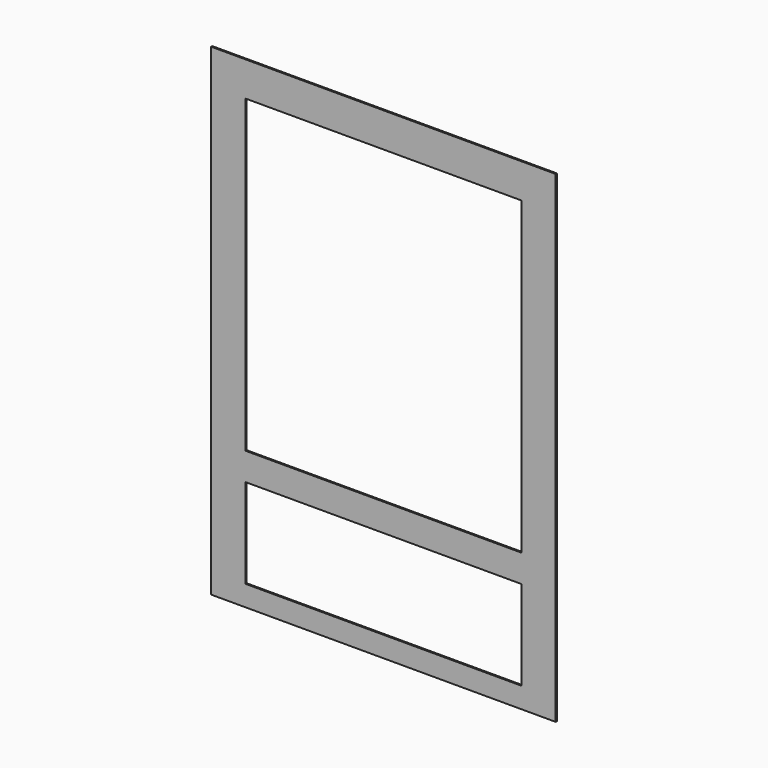
from build123d import *

# Parameters (mm, degrees)
F0_W     = 500
F0_H     = 700
F0_W_2   = 400
F0_H_2   = 450
F1_DEPTH = 2
F2_W     = 400
F2_H     = 130
F3_DEPTH = 4


with BuildPart() as f1:
    # F0 (on Front) → F1 (new body)
    with BuildSketch(Plane.XZ):
        Rectangle(F0_W, F0_H)
        with Locations((0, 75)):
            Rectangle(F0_W_2, F0_H_2, mode=Mode.SUBTRACT)
    extrude(amount=F1_DEPTH)

    # F2 (on face) → F3 (cut)
    with BuildSketch(Plane.XZ.offset(2)):
        with Locations((0, -255)):
            Rectangle(F2_W, F2_H)
    extrude(amount=-F3_DEPTH, mode=Mode.SUBTRACT)


solid = f1.part
